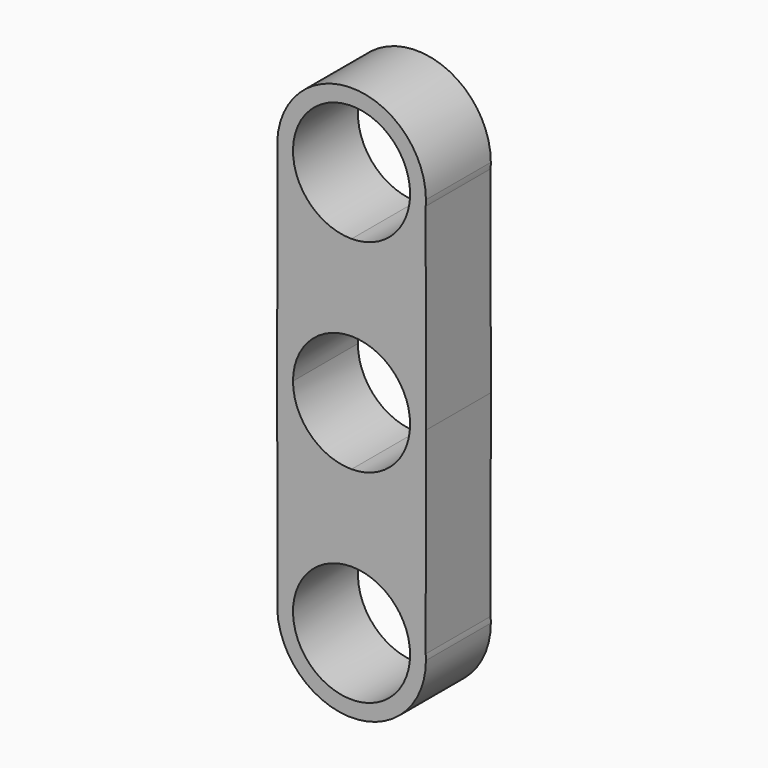
from build123d import *

# Parameters (mm, degrees)
F1_DEPTH = 15.24


with BuildPart() as f1:
    # F0 (on Front) → F1 (new body)
    with BuildSketch(Plane.XZ):
        with BuildLine():
            ThreePointArc((-10.9982, 0), (-7.776902, 7.776902), (0, 10.9982))
            Line((0, 10.9982), (0, 24.13))
            ThreePointArc((0, 24.13), (-9.485208, 27.843698), (-13.927438, 37.01034))
            Line((-13.927438, 37.01034), (-13.97, 0))
            Line((-13.97, 0), (-10.9982, 0))
        make_face()
        with BuildLine():
            Line((0, 24.13), (0, 10.9982))
            ThreePointArc((0, 10.9982), (7.776902, 7.776902), (10.9982, 0))
            Line((10.9982, 0), (13.97, 0))
            Line((13.97, 0), (13.927438, 37.01034))
            ThreePointArc((13.927438, 37.01034), (9.485208, 27.843698), (0, 24.13))
        make_face()
        with BuildLine():
            Line((0, -24.13), (0, -10.9982))
            ThreePointArc((0, -10.9982), (-7.776902, -7.776902), (-10.9982, 0))
            Line((-10.9982, 0), (-13.97, 0))
            Line((-13.97, 0), (-13.927438, -37.01034))
            ThreePointArc((-13.927438, -37.01034), (-9.485208, -27.843698), (0, -24.13))
        make_face()
        with BuildLine():
            ThreePointArc((10.9982, 0), (7.776902, -7.776902), (0, -10.9982))
            Line((0, -10.9982), (0, -24.13))
            ThreePointArc((0, -24.13), (9.485208, -27.843698), (13.927438, -37.01034))
            Line((13.927438, -37.01034), (13.97, 0))
            Line((13.97, 0), (10.9982, 0))
        make_face()
        with BuildLine():
            ThreePointArc((10.9982, 38.1), (-7.776902, 45.876902), (0, 27.1018))
            ThreePointArc((0, 27.1018), (7.776902, 30.323098), (10.9982, 38.1))
        make_face()
        with BuildLine():
            ThreePointArc((-13.927438, 37.01034), (-9.485208, 27.843698), (0, 24.13))
            ThreePointArc((0, 24.13), (9.485208, 27.843698), (13.927438, 37.01034))
            ThreePointArc((13.927438, 37.01034), (13.959356, 37.554755), (13.97, 38.1))
            ThreePointArc((13.97, 38.1), (-0.545245, 52.059356), (-13.927438, 37.01034))
        make_face()
        with BuildLine():
            ThreePointArc((10.9982, 38.1), (7.776902, 30.323098), (0, 27.1018))
            ThreePointArc((0, 27.1018), (-7.776902, 45.876902), (10.9982, 38.1))
        make_face(mode=Mode.SUBTRACT)
        with BuildLine():
            ThreePointArc((10.9982, -38.1), (7.776902, -30.323098), (0, -27.1018))
            ThreePointArc((0, -27.1018), (-7.776902, -45.876902), (10.9982, -38.1))
        make_face()
        with BuildLine():
            ThreePointArc((13.927438, -37.01034), (9.485208, -27.843698), (0, -24.13))
            ThreePointArc((0, -24.13), (-9.485208, -27.843698), (-13.927438, -37.01034))
            ThreePointArc((-13.927438, -37.01034), (-0.545245, -52.059356), (13.97, -38.1))
            ThreePointArc((13.97, -38.1), (13.959356, -37.554755), (13.927438, -37.01034))
        make_face()
        with BuildLine():
            ThreePointArc((10.9982, -38.1), (-7.776902, -45.876902), (0, -27.1018))
            ThreePointArc((0, -27.1018), (7.776902, -30.323098), (10.9982, -38.1))
        make_face(mode=Mode.SUBTRACT)
    extrude(amount=F1_DEPTH)


solid = f1.part
